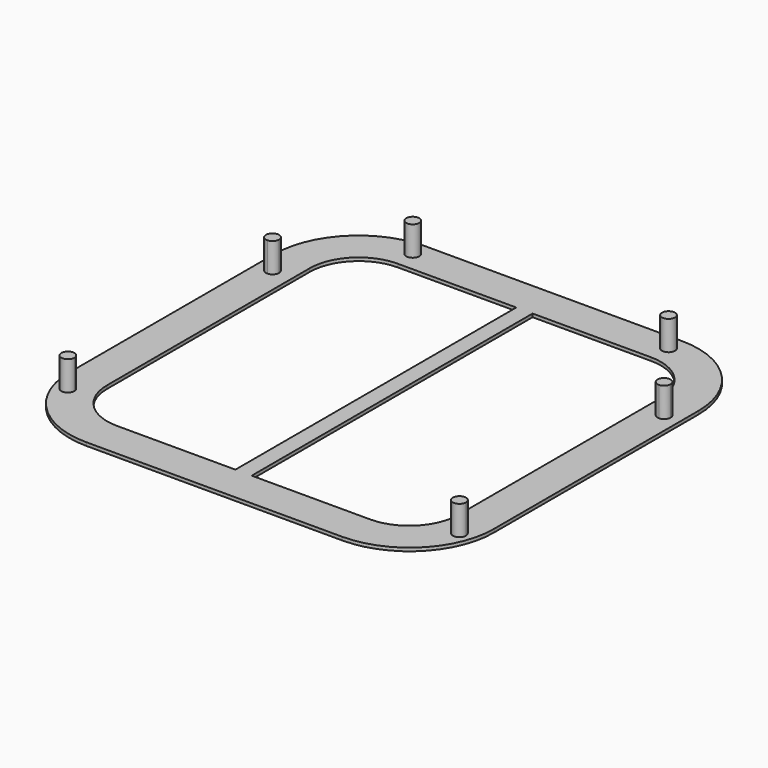
from build123d import *

# Parameters (mm, degrees)
F0_R     = 2
F0_W     = 2.6
F0_H     = 107.6
F0_W_2   = 1.2
F0_H_2   = 1.2
F1_DEPTH = 1
F2_DEPTH = 10


with BuildPart() as f1:
    # F0 (on Top) → F1 (new body)
    with BuildSketch(Plane.XY):
        with BuildLine():
            ThreePointArc((65, 39.2), (57.4433549546, 57.4433549546), (39.2, 65))
            Line((39.2, 65), (-39.2, 65))
            ThreePointArc((-39.2, 65), (-57.4433549546, 57.4433549546), (-65, 39.2))
            Line((-65, 39.2), (-65, -39.2))
            ThreePointArc((-65, -39.2), (-57.4433549546, -57.4433549546), (-39.2, -65))
            Line((-39.2, -65), (39.2, -65))
            ThreePointArc((39.2, -65), (57.4433549546, -57.4433549546), (65, -39.2))
            Line((65, -39.2), (65, 39.2))
        make_face()
        with BuildLine():
            ThreePointArc((-58, -46.1086357947), (-61.4142135624, -47.5228493571), (-60, -44.1086357947))
            ThreePointArc((-60, -44.1086357947), (-58.5857864376, -44.6944222324), (-58, -46.1086357947))
        make_face(mode=Mode.SUBTRACT)
        with BuildLine():
            ThreePointArc((62, -46.1086357947), (58.5857864376, -47.5228493571), (60, -44.1086357947))
            ThreePointArc((60, -44.1086357947), (61.4142135624, -44.6944222324), (62, -46.1086357947))
        make_face(mode=Mode.SUBTRACT)
        with BuildLine():
            ThreePointArc((-58, 32.2913642053), (-58.5857864376, 30.8771506429), (-60, 30.2913642053))
            ThreePointArc((-60, 30.2913642053), (-61.4142135624, 33.7055777676), (-58, 32.2913642053))
        make_face(mode=Mode.SUBTRACT)
        with Locations((-39.2, 60)):
            Circle(F0_R, mode=Mode.SUBTRACT)
        with BuildLine():
            ThreePointArc((-55, 39.2), (-50.3722871427, 50.3722871427), (-39.2, 55))
            Line((-39.2, 55), (-2.5, 55))
            Line((-2.5, 55), (-1.3, 55))
            Line((-1.3, 55), (1.3, 55))
            Line((1.3, 55), (2.5, 55))
            Line((2.5, 55), (39.2, 55))
            ThreePointArc((39.2, 55), (50.3722871427, 50.3722871427), (55, 39.2))
            Line((55, 39.2), (55, -39.2))
            ThreePointArc((55, -39.2), (50.3722871427, -50.3722871427), (39.2, -55))
            Line((39.2, -55), (2.5, -55))
            Line((2.5, -55), (1.3, -55))
            Line((1.3, -55), (-1.3, -55))
            Line((-1.3, -55), (-2.5, -55))
            Line((-2.5, -55), (-39.2, -55))
            ThreePointArc((-39.2, -55), (-50.3722871427, -50.3722871427), (-55, -39.2))
            Line((-55, -39.2), (-55, 39.2))
        make_face(mode=Mode.SUBTRACT)
        with BuildLine():
            ThreePointArc((62, 32.2913642053), (61.4142135624, 30.8771506429), (60, 30.2913642053))
            ThreePointArc((60, 30.2913642053), (58.5857864376, 33.7055777676), (62, 32.2913642053))
        make_face(mode=Mode.SUBTRACT)
        with BuildLine():
            ThreePointArc((41.2, 60), (39.2, 58), (37.2, 60))
            ThreePointArc((37.2, 60), (39.2, 62), (41.2, 60))
        make_face(mode=Mode.SUBTRACT)
        Rectangle(F0_W, F0_H)
        with BuildLine():
            Line((-2.5, 55), (-39.2, 55))
            ThreePointArc((-39.2, 55), (-50.3722871427, 50.3722871427), (-55, 39.2))
            Line((-55, 39.2), (-55, -39.2))
            ThreePointArc((-55, -39.2), (-50.3722871427, -50.3722871427), (-39.2, -55))
            Line((-39.2, -55), (-2.5, -55))
            Line((-2.5, -55), (-2.5, -53.8))
            Line((-2.5, -53.8), (-38.8, -53.8))
            ThreePointArc((-38.8, -53.8), (-49.4066017178, -49.4066017178), (-53.8, -38.8))
            Line((-53.8, -38.8), (-53.8, 38.8))
            ThreePointArc((-53.8, 38.8), (-49.4066017178, 49.4066017178), (-38.8, 53.8))
            Line((-38.8, 53.8), (-2.5, 53.8))
            Line((-2.5, 53.8), (-2.5, 55))
        make_face()
        with BuildLine():
            Line((39.2, 55), (2.5, 55))
            Line((2.5, 55), (2.5, 53.8))
            Line((2.5, 53.8), (38.8, 53.8))
            ThreePointArc((38.8, 53.8), (49.4066017178, 49.4066017178), (53.8, 38.8))
            Line((53.8, 38.8), (53.8, -38.8))
            ThreePointArc((53.8, -38.8), (49.4066017178, -49.4066017178), (38.8, -53.8))
            Line((38.8, -53.8), (2.5, -53.8))
            Line((2.5, -53.8), (2.5, -55))
            Line((2.5, -55), (39.2, -55))
            ThreePointArc((39.2, -55), (50.3722871427, -50.3722871427), (55, -39.2))
            Line((55, -39.2), (55, 39.2))
            ThreePointArc((55, 39.2), (50.3722871427, 50.3722871427), (39.2, 55))
        make_face()
        with Locations((-1.9, 0)):
            Rectangle(F0_W_2, F0_H)
        with Locations((1.9, 0)):
            Rectangle(F0_W_2, F0_H)
        with BuildLine():
            ThreePointArc((-58, -46.1086357947), (-58.5857864376, -44.6944222324), (-60, -44.1086357947))
            ThreePointArc((-60, -44.1086357947), (-61.4142135624, -47.5228493571), (-58, -46.1086357947))
        make_face()
        with BuildLine():
            ThreePointArc((-58, 32.2913642053), (-61.4142135624, 33.7055777676), (-60, 30.2913642053))
            ThreePointArc((-60, 30.2913642053), (-58.5857864376, 30.8771506429), (-58, 32.2913642053))
        make_face()
        with Locations((-39.2, 60)):
            Circle(F0_R)
        with BuildLine():
            ThreePointArc((41.2, 60), (39.2, 62), (37.2, 60))
            ThreePointArc((37.2, 60), (39.2, 58), (41.2, 60))
        make_face()
        with BuildLine():
            ThreePointArc((62, 32.2913642053), (58.5857864376, 33.7055777676), (60, 30.2913642053))
            ThreePointArc((60, 30.2913642053), (61.4142135624, 30.8771506429), (62, 32.2913642053))
        make_face()
        with BuildLine():
            ThreePointArc((62, -46.1086357947), (61.4142135624, -44.6944222324), (60, -44.1086357947))
            ThreePointArc((60, -44.1086357947), (58.5857864376, -47.5228493571), (62, -46.1086357947))
        make_face()
        with Locations((0, -54.4)):
            Rectangle(F0_W, F0_H_2)
        with Locations((0, 54.4)):
            Rectangle(F0_W, F0_H_2)
        with Locations((-1.9, -54.4)):
            Rectangle(F0_W_2, F0_H_2)
        with Locations((1.9, -54.4)):
            Rectangle(F0_W_2, F0_H_2)
        with Locations((-1.9, 54.4)):
            Rectangle(F0_W_2, F0_H_2)
        with Locations((1.9, 54.4)):
            Rectangle(F0_W_2, F0_H_2)
    extrude(amount=F1_DEPTH)

    # F0 (on Top) → F2 (join)
    with BuildSketch(Plane.XY):
        with BuildLine():
            ThreePointArc((-58, -46.1086357947), (-58.5857864376, -44.6944222324), (-60, -44.1086357947))
            ThreePointArc((-60, -44.1086357947), (-61.4142135624, -47.5228493571), (-58, -46.1086357947))
        make_face()
        with BuildLine():
            ThreePointArc((-58, 32.2913642053), (-61.4142135624, 33.7055777676), (-60, 30.2913642053))
            ThreePointArc((-60, 30.2913642053), (-58.5857864376, 30.8771506429), (-58, 32.2913642053))
        make_face()
        with BuildLine():
            ThreePointArc((41.2, 60), (39.2, 62), (37.2, 60))
            ThreePointArc((37.2, 60), (39.2, 58), (41.2, 60))
        make_face()
        with Locations((-39.2, 60)):
            Circle(F0_R)
        with BuildLine():
            ThreePointArc((62, -46.1086357947), (61.4142135624, -44.6944222324), (60, -44.1086357947))
            ThreePointArc((60, -44.1086357947), (58.5857864376, -47.5228493571), (62, -46.1086357947))
        make_face()
        with BuildLine():
            ThreePointArc((62, 32.2913642053), (58.5857864376, 33.7055777676), (60, 30.2913642053))
            ThreePointArc((60, 30.2913642053), (61.4142135624, 30.8771506429), (62, 32.2913642053))
        make_face()
    extrude(amount=F2_DEPTH)


solid = f1.part
